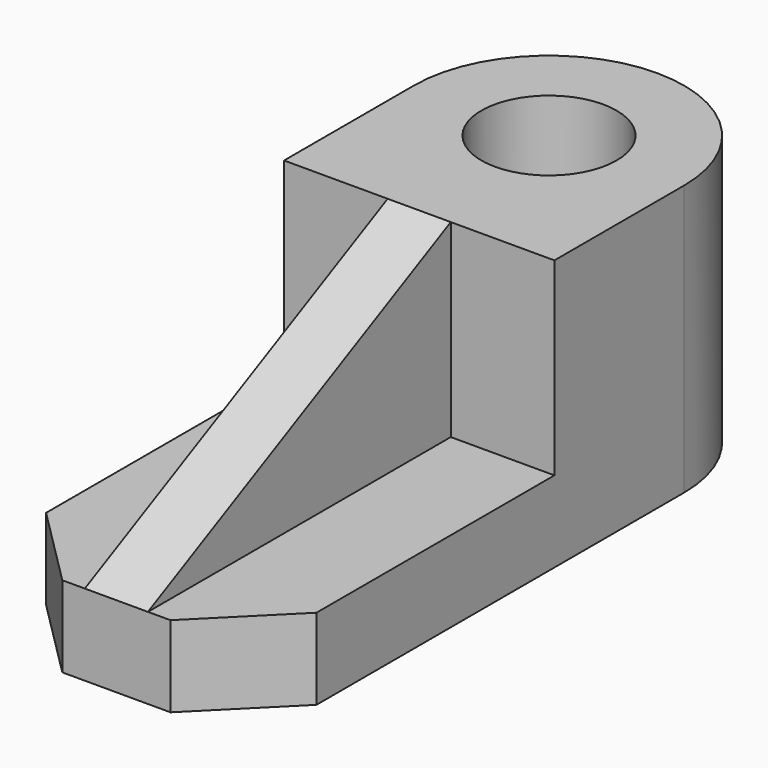
from build123d import *

# Parameters (mm, degrees)
F1_DEPTH  = 9
F2_W      = 7
F2_H      = 42
F3_DEPTH  = 21
F5_DEPTH  = 7
F7_DEPTH  = 30
F8_DEPTH  = 21
F9_R      = 7.5
F10_DEPTH = 30


with BuildPart() as f1:
    # F0 (on Top) → F1 (new body)
    with BuildSketch(Plane.XY):
        Polygon((15, 30), (-15, 30), (-15, -21), (-6, -30), (6, -30), (15, -21), align=None)
    extrude(amount=F1_DEPTH)

    # F2 (on face) → F3 (join)
    with BuildSketch(Plane.XY.offset(9)):
        with Locations((0, -9)):
            Rectangle(F2_W, F2_H)
    extrude(amount=F3_DEPTH)

    # F4 (on face) → F5 (cut)
    with BuildSketch(Plane(origin=(-3.5, 0, 0), x_dir=(0, -1, 0), z_dir=(-1, 0, 0))):
        Polygon((30, 30), (-12, 30), (30, 9), align=None)
    extrude(amount=-F5_DEPTH, mode=Mode.SUBTRACT)

    # F0 (on Top) → F7 (join)
    with BuildSketch(Plane.XY):
        with BuildLine():
            ThreePointArc((15, 30), (0, 45), (-15, 30))
            Line((-15, 30), (15, 30))
        make_face()
    extrude(amount=F7_DEPTH)

    # F6 (on face) → F8 (join)
    with BuildSketch(Plane.XY.offset(9)):
        Polygon((3.5, 12), (15, 12), (15, 30), (-15, 30), (-15, 12), (-3.5, 12), align=None)
    extrude(amount=F8_DEPTH)

    # F9 (on face) → F10 (cut)
    with BuildSketch(Plane.XY.offset(30)):
        with Locations((0, 30)):
            Circle(F9_R)
    extrude(amount=-F10_DEPTH, mode=Mode.SUBTRACT)


solid = f1.part
